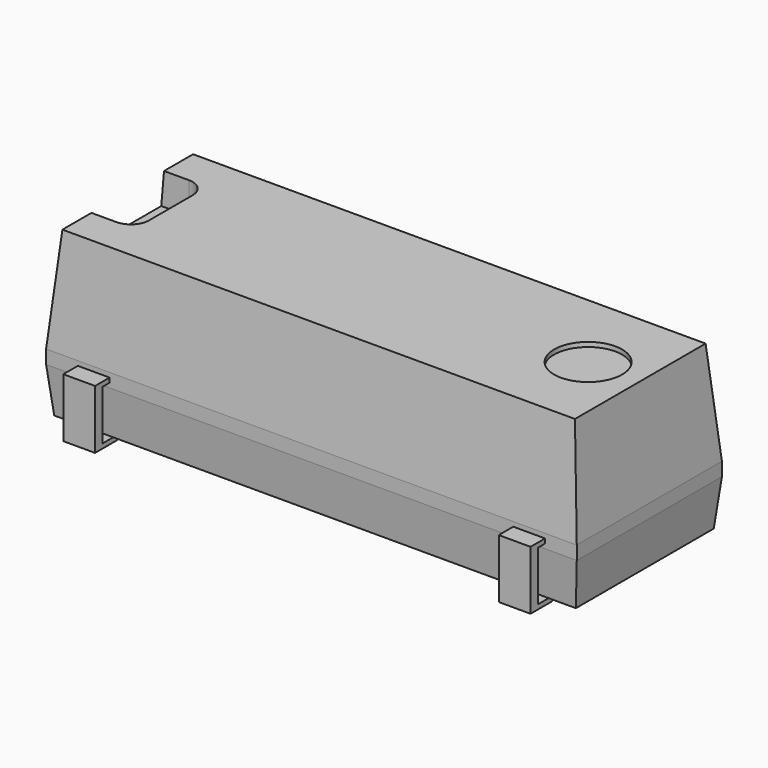
from build123d import *

# Parameters (mm, degrees)
BOX003_W         = 2.7
BOX003_H         = 3.6
BOX003_DEPTH     = 1.1
BOX002_W         = 2.7
BOX002_H         = 4.4
BOX002_DEPTH     = 1.1
BOX_W            = 0.7
BOX_H            = 4.8
BOX_DEPTH        = 1.3
BOX005_W         = 2.7
BOX005_H         = 3.6
BOX005_DEPTH     = 1.1
BOX004_W         = 2.7
BOX004_H         = 4.4
BOX004_DEPTH     = 1.1
BOX001_W         = 0.7
BOX001_H         = 4.8
BOX001_DEPTH     = 1.3
BOX006_W         = 2
BOX006_H         = 2
BOX006_DEPTH     = 1
FILLET_R         = 0.4
FILLET001_R      = 0.4
FILLET002_R      = 0.4
CYLINDER_R       = 0.75
CYLINDER_DEPTH   = 1
SKETCH_W         = 11.7
SKETCH_H         = 4
PAD_DEPTH        = 3.6
CHAMFER_SIZE2    = 0.2
CHAMFER_SIZE     = 2.3
CHAMFER001_SIZE2 = 2.3
CHAMFER001_SIZE  = 0.2
CHAMFER002_SIZE2 = 0.2
CHAMFER002_SIZE  = 2.3
CHAMFER003_SIZE2 = 2.3
CHAMFER003_SIZE  = 0.2
CHAMFER004_SIZE2 = 0.1
CHAMFER004_SIZE  = 1
CHAMFER005_SIZE2 = 1
CHAMFER005_SIZE  = 0.1
CHAMFER006_SIZE2 = 1
CHAMFER006_SIZE  = 0.1
CHAMFER007_SIZE2 = 1
CHAMFER007_SIZE  = 0.1


with BuildPart() as kub003:
    # Box003 → Box003 (new body)
    with BuildSketch(Plane(origin=(3.45, -1.8, -0.9), x_dir=(1, 0, 0), z_dir=(0, 0, 1))):
        with Locations((1.35, 1.8)):
            Rectangle(BOX003_W, BOX003_H)
    extrude(amount=BOX003_DEPTH)


with BuildPart() as kub002:
    # Box002 → Box002 (new body)
    with BuildSketch(Plane(origin=(3.45, -2.2, 0.1), x_dir=(1, 0, 0), z_dir=(0, 0, 1))):
        with Locations((1.35, 2.2)):
            Rectangle(BOX002_W, BOX002_H)
    extrude(amount=BOX002_DEPTH)


with BuildPart() as cut001:
    # Box → Box (new body)
    with BuildSketch(Plane(origin=(4.45, -2.4, 0), x_dir=(1, 0, 0), z_dir=(0, 0, 1))):
        with Locations((0.35, 2.4)):
            Rectangle(BOX_W, BOX_H)
    extrude(amount=BOX_DEPTH)

    # Cut: cut Kub002
    add(kub002.part, mode=Mode.SUBTRACT)

    # Cut001: cut Kub003
    add(kub003.part, mode=Mode.SUBTRACT)


with BuildPart() as kub005:
    # Box005 → Box005 (new body)
    with BuildSketch(Plane(origin=(-6.55, -1.8, -0.9), x_dir=(1, 0, 0), z_dir=(0, 0, 1))):
        with Locations((1.35, 1.8)):
            Rectangle(BOX005_W, BOX005_H)
    extrude(amount=BOX005_DEPTH)


with BuildPart() as kub004:
    # Box004 → Box004 (new body)
    with BuildSketch(Plane(origin=(-5.55, -2.2, 0.1), x_dir=(1, 0, 0), z_dir=(0, 0, 1))):
        with Locations((1.35, 2.2)):
            Rectangle(BOX004_W, BOX004_H)
    extrude(amount=BOX004_DEPTH)


with BuildPart() as cut003:
    # Box001 → Box001 (new body)
    with BuildSketch(Plane(origin=(-5.15, -2.4, 0), x_dir=(1, 0, 0), z_dir=(0, 0, 1))):
        with Locations((0.35, 2.4)):
            Rectangle(BOX001_W, BOX001_H)
    extrude(amount=BOX001_DEPTH)

    # Cut002: cut Kub004
    add(kub004.part, mode=Mode.SUBTRACT)

    # Cut003: cut Kub005
    add(kub005.part, mode=Mode.SUBTRACT)


with BuildPart() as fillet002:
    # Box006 → Box006 (new body)
    with BuildSketch(Plane(origin=(5, -1, 3), x_dir=(1, 0, 0), z_dir=(0, 0, 1))):
        with Locations((1, 1)):
            Rectangle(BOX006_W, BOX006_H)
    extrude(amount=BOX006_DEPTH)

    # Fillet
    fillet_edges = [fillet002.edges().sort_by_distance(p)[0] for p in [
        (5, -1, 3.5),
    ]]
    fillet(fillet_edges, radius=FILLET_R)

    # Fillet001
    fillet001_edges = [fillet002.edges().sort_by_distance(p)[0] for p in [
        (5, 1, 3.5),
    ]]
    fillet(fillet001_edges, radius=FILLET001_R)

    # Fillet002
    fillet002_edges = [fillet002.edges().sort_by_distance(p)[0] for p in [
        (7, 1, 3.5),
        (7, -1, 3.5),
    ]]
    fillet(fillet002_edges, radius=FILLET002_R)


with BuildPart() as fillet002_1:
    # Fillet002 placement: moved
    add(fillet002.part.moved(Location((-11.7, 0, 0))))


with BuildPart() as cylinder:
    # Cylinder → Cylinder (new body)
    with BuildSketch(Plane(origin=(4.5, 0, 3.6), x_dir=(1, 0, 0), z_dir=(0, 0, 1))):
        Circle(CYLINDER_R)
    extrude(amount=CYLINDER_DEPTH)


with BuildPart() as cut005:
    # Sketch → Pad (new body)
    with BuildSketch(Plane.XY):
        Rectangle(SKETCH_W, SKETCH_H)
    extrude(amount=PAD_DEPTH)


with BuildPart() as cut005_1:
    # Body placement: moved
    add(cut005.part.moved(Location((0, 0, 0.1))))

    # Cut004: cut Cylinder
    add(cylinder.part, mode=Mode.SUBTRACT)

    # Chamfer
    chamfer_edges = [cut005_1.edges().sort_by_distance(p)[0] for p in [
        (0, 2, 3.7),
    ]]
    chamfer_side = cut005_1.faces().sort_by_distance((0, 2, 1.9))[0]
    chamfer(chamfer_edges, length=CHAMFER_SIZE, length2=CHAMFER_SIZE2, reference=chamfer_side)

    # Chamfer001
    chamfer001_edges = [cut005_1.edges().sort_by_distance(p)[0] for p in [
        (0, -2, 3.7),
    ]]
    chamfer001_side = cut005_1.faces().sort_by_distance((-0.186264, -0.104139, 3.7))[0]
    chamfer(chamfer001_edges, length=CHAMFER001_SIZE, length2=CHAMFER001_SIZE2, reference=chamfer001_side)

    # Chamfer002
    chamfer002_edges = [cut005_1.edges().sort_by_distance(p)[0] for p in [
        (-5.85, 0, 3.7),
    ]]
    chamfer002_side = cut005_1.faces().sort_by_distance((-5.85, 0, 1.865901))[0]
    chamfer(chamfer002_edges, length=CHAMFER002_SIZE, length2=CHAMFER002_SIZE2, reference=chamfer002_side)

    # Chamfer003
    chamfer003_edges = [cut005_1.edges().sort_by_distance(p)[0] for p in [
        (5.85, 0, 3.7),
    ]]
    chamfer003_side = cut005_1.faces().sort_by_distance((-0.096187, 0, 3.7))[0]
    chamfer(chamfer003_edges, length=CHAMFER003_SIZE, length2=CHAMFER003_SIZE2, reference=chamfer003_side)

    # Chamfer004
    chamfer004_edges = [cut005_1.edges().sort_by_distance(p)[0] for p in [
        (-5.85, 0, 0.1),
    ]]
    chamfer004_side = cut005_1.faces().sort_by_distance((-5.85, 0, 0.75))[0]
    chamfer(chamfer004_edges, length=CHAMFER004_SIZE, length2=CHAMFER004_SIZE2, reference=chamfer004_side)

    # Chamfer005
    chamfer005_edges = [cut005_1.edges().sort_by_distance(p)[0] for p in [
        (5.85, 0, 0.1),
    ]]
    chamfer005_side = cut005_1.faces().sort_by_distance((0.05, 0, 0.1))[0]
    chamfer(chamfer005_edges, length=CHAMFER005_SIZE, length2=CHAMFER005_SIZE2, reference=chamfer005_side)

    # Chamfer006
    chamfer006_edges = [cut005_1.edges().sort_by_distance(p)[0] for p in [
        (0, 2, 0.1),
    ]]
    chamfer006_side = cut005_1.faces().sort_by_distance((0, 0, 0.1))[0]
    chamfer(chamfer006_edges, length=CHAMFER006_SIZE, length2=CHAMFER006_SIZE2, reference=chamfer006_side)

    # Chamfer007
    chamfer007_edges = [cut005_1.edges().sort_by_distance(p)[0] for p in [
        (0, -2, 0.1),
    ]]
    chamfer007_side = cut005_1.faces().sort_by_distance((0, -0.05, 0.1))[0]
    chamfer(chamfer007_edges, length=CHAMFER007_SIZE, length2=CHAMFER007_SIZE2, reference=chamfer007_side)

    # Cut005: cut Fillet002
    add(fillet002_1.part, mode=Mode.SUBTRACT)


solid = Compound([cut001.part, cut003.part, cut005_1.part])
